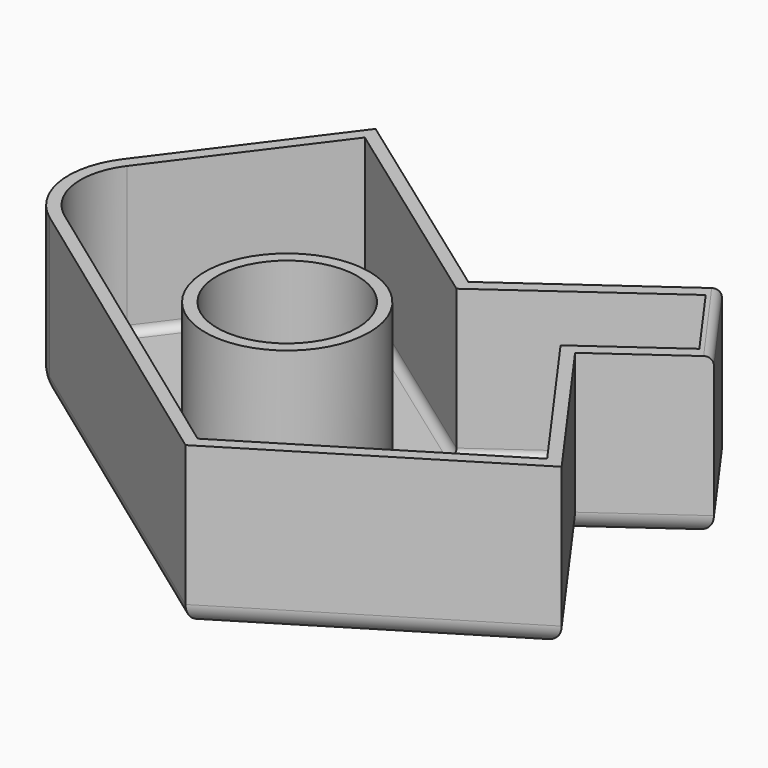
from build123d import *

# Parameters (mm, degrees)
F1_DEPTH      = 40
F2_R          = 17.5
F3_DEPTH      = 71
F3_DEPTH_BACK = 36
F4_T          = -3
F5_R          = 2
F6_R          = 5
F7_R          = 2


with BuildPart() as f1:
    # F0 (on Top) → F1 (new body)
    with BuildSketch(Plane.XY):
        with BuildLine():
            Line((-27.5977612737, 13.564970105), (-82.0387158474, 52.6854230273))
            Line((-82.0387158474, 52.6854230273), (-112.497974617, 11.9829792529))
            ThreePointArc((-112.497974617, 11.9829792529), (-116.2588665454, -3.0005047079), (-108.2223530131, -16.1938193008))
            Line((-108.2223530131, -16.1938193008), (-27.5977612737, -74.6297745564))
            Line((-27.5977612737, -74.6297745564), (35.3226008469, -35.9862801798))
            Line((35.3226008469, -35.9862801798), (7.3407227042, 3.188352482))
            Line((7.3407227042, 3.188352482), (29.3764571995, 18.9281615252))
            Line((29.3764571995, 18.9281615252), (12.6650570628, 42.3241236648))
            Line((12.6650570628, 42.3241236648), (-27.5977612737, 13.564970105))
        make_face()
    extrude(amount=-F1_DEPTH)

    # F2 (on Top) → F3 (cut, two sides)
    with BuildSketch(Plane.XY) as f3_sk:
        with Locations((-49.8492009938, -15.0985578075)):
            Circle(F2_R)
    extrude(amount=-F3_DEPTH, mode=Mode.SUBTRACT)
    extrude(f3_sk.sketch, amount=F3_DEPTH_BACK, mode=Mode.SUBTRACT)

    # F4
    f4_openings = [f1.faces().sort_by_distance(p)[0] for p in [
        (-66.747329, -43.807571, 0),
    ]]
    offset(amount=F4_T, openings=f4_openings, kind=Kind.INTERSECTION)

    # F5
    f5_edges = [f1.edges().sort_by_distance(p)[0] for p in [
        (-95.747934, 29.358811, -37),
        (-113.29282, -2.550429, -37),
        (-66.960878, -42.394636, -37),
        (1.776075, -53.068764, -37),
        (17.083964, -15.613582, -37),
        (14.173675, 11.755743, -37),
        (18.579557, 28.882428, -37),
        (-7.817716, 24.006862, -37),
        (-54.501405, 29.203302, -37),
        (-70.349201, -15.098558, -37),
    ]]
    fillet(f5_edges, radius=F5_R)

    # F6
    f6_edges = [f1.edges().sort_by_distance(p)[0] for p in [
        (-67.910057, -45.411797, -40),
        (-116.258867, -3.000505, -40),
        (3.86242, -55.308027, -40),
        (-97.268345, 32.334201, -40),
        (21.331662, -16.398964, -40),
        (-54.818239, 33.125197, -40),
        (18.35859, 11.058257, -40),
        (-7.466352, 27.944547, -40),
        (21.020757, 30.626143, -40),
        (-67.349201, -15.098558, -40),
    ]]
    fillet(f6_edges, radius=F6_R)

    # F7
    f7_edges = [f1.edges().sort_by_distance(p)[0] for p in [
        (21.020757, 30.626143, 0),
    ]]
    fillet(f7_edges, radius=F7_R)


solid = f1.part
